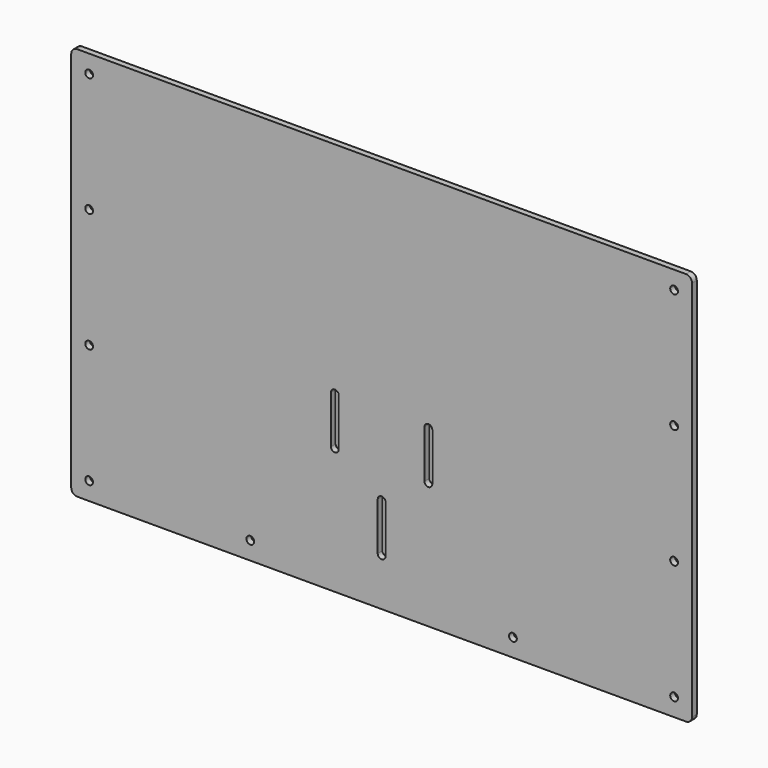
from build123d import *

# Parameters (mm, degrees)
F0_W     = 520
F0_H     = 330
F0_R     = 3.25
F1_DEPTH = 5
F2_R     = 5


with BuildPart() as f1:
    # F0 (on Front) → F1 (new body)
    with BuildSketch(Plane.XZ):
        with Locations((260, 165)):
            Rectangle(F0_W, F0_H)
        with Locations((15, 15)):
            Circle(F0_R, mode=Mode.SUBTRACT)
        with Locations((150, 15)):
            Circle(F0_R, mode=Mode.SUBTRACT)
        with Locations((15, 115)):
            Circle(F0_R, mode=Mode.SUBTRACT)
        with BuildLine():
            Line((217.55, 106), (217.55, 146))
            ThreePointArc((217.55, 146), (220.8, 149.25), (224.05, 146))
            Line((224.05, 146), (224.05, 106))
            ThreePointArc((224.05, 106), (220.8, 102.75), (217.55, 106))
        make_face(mode=Mode.SUBTRACT)
        with Locations((370, 15)):
            Circle(F0_R, mode=Mode.SUBTRACT)
        with BuildLine():
            Line((256.75, 40), (256.75, 80))
            ThreePointArc((256.75, 80), (260, 83.25), (263.25, 80))
            Line((263.25, 80), (263.25, 40))
            ThreePointArc((263.25, 40), (260, 36.75), (256.75, 40))
        make_face(mode=Mode.SUBTRACT)
        with Locations((505, 15)):
            Circle(F0_R, mode=Mode.SUBTRACT)
        with BuildLine():
            Line((295.95, 106), (295.95, 146))
            ThreePointArc((295.95, 146), (299.2, 149.25), (302.45, 146))
            Line((302.45, 146), (302.45, 106))
            ThreePointArc((302.45, 106), (299.2, 102.75), (295.95, 106))
        make_face(mode=Mode.SUBTRACT)
        with Locations((505, 115)):
            Circle(F0_R, mode=Mode.SUBTRACT)
        with Locations((15, 215)):
            Circle(F0_R, mode=Mode.SUBTRACT)
        with Locations((15, 315)):
            Circle(F0_R, mode=Mode.SUBTRACT)
        with Locations((505, 215)):
            Circle(F0_R, mode=Mode.SUBTRACT)
        with Locations((505, 315)):
            Circle(F0_R, mode=Mode.SUBTRACT)
    extrude(amount=F1_DEPTH)

    # F2
    f2_edges = [f1.edges().sort_by_distance(p)[0] for p in [
        (520, -2.5, 330),
        (520, -2.5, 0),
        (0, -2.5, 0),
        (0, -2.5, 330),
    ]]
    fillet(f2_edges, radius=F2_R)


solid = f1.part
